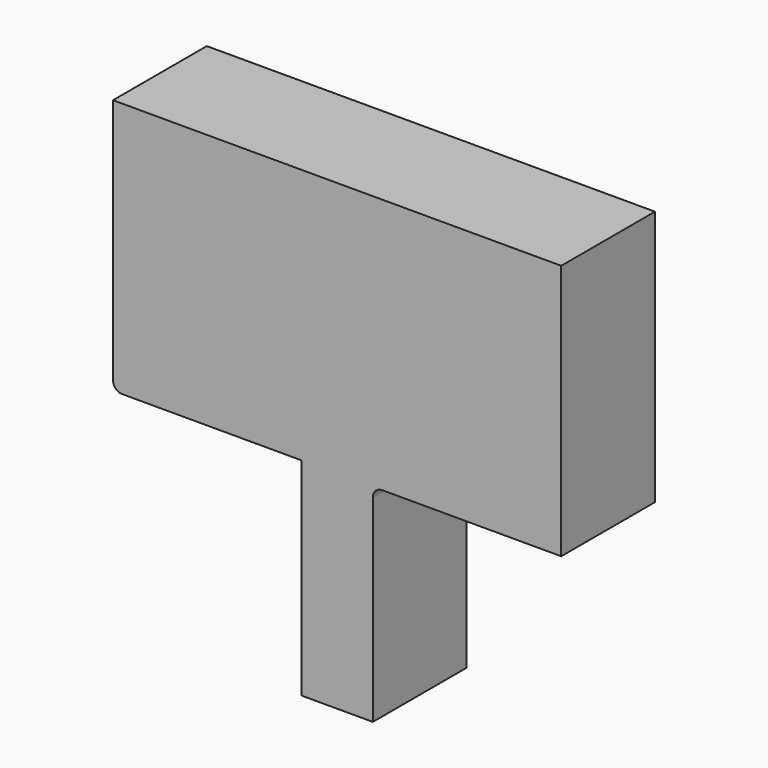
from build123d import *

# Parameters (mm, degrees)
F1_DEPTH = 25


with BuildPart() as f1:
    # F0 (on Front) → F1 (new body)
    with BuildSketch(Plane.XZ):
        with BuildLine():
            Line((9.62054, -27.277499), (47.800217, -27.277499))
            Line((47.800217, -27.277499), (47.800217, 27.277499))
            Line((47.800217, 27.277499), (-47.800217, 27.277499))
            Line((-47.800217, 27.277499), (-47.800217, -25.277499))
            ThreePointArc((-47.800217, -25.277499), (-47.21443, -26.691713), (-45.800217, -27.277499))
            Line((-45.800217, -27.277499), (-7.62054, -27.277499))
            Line((-7.62054, -27.277499), (-7.62054, -71.44513))
            Line((-7.62054, -71.44513), (7.62054, -71.44513))
            Line((7.62054, -71.44513), (7.62054, -29.277499))
            ThreePointArc((7.62054, -29.277499), (8.206326, -27.863286), (9.62054, -27.277499))
        make_face()
    extrude(amount=F1_DEPTH)


solid = f1.part
